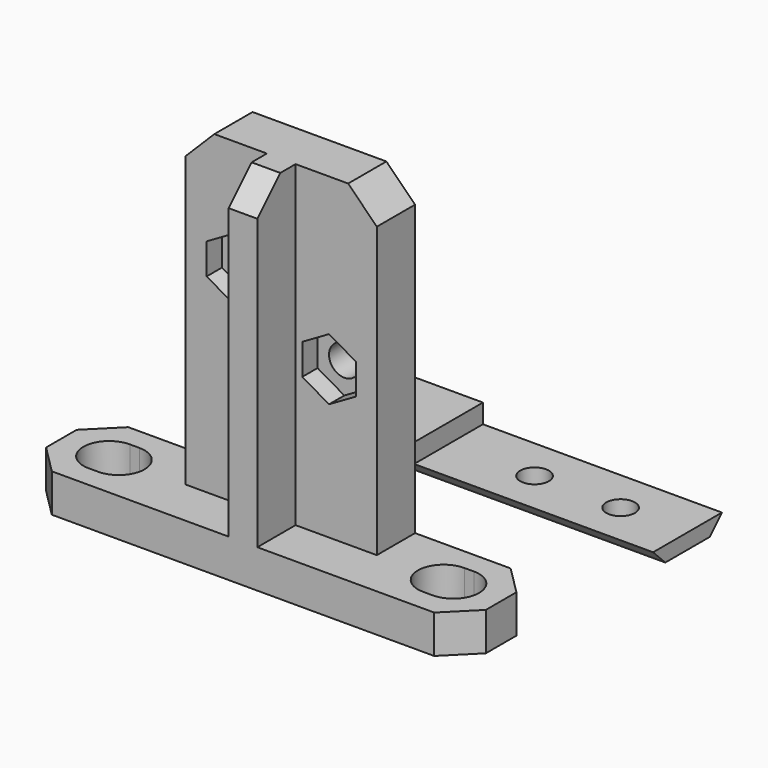
from build123d import *

# Parameters (mm, degrees)
F1_DEPTH        = 3
F3_DEPTH        = 34.25
F4_SIZE         = 3
F6_D            = 3.2
F8_DEPTH        = 3.001
F10_DEPTH       = 2
F13_DEPTH       = 22.5
F14_W           = 20
F14_H           = 9
F15_DEPTH       = 2
F17_D           = 5.2
F17_CBORE_D     = 10
F17_CBORE_DEPTH = 0
F19_D           = 3
F20_DEPTH       = 1


with BuildPart() as f1:
    # F0 (on Top) → F1 (new body)
    with BuildSketch(Plane.XY):
        Polygon((20, 5), (0, 5), (-20, 5), (-23, 2), (-23, 0), (-23, -2), (-20, -5), (0, -5), (20, -5), (23, -2), (23, 0), (23, 2), align=None)
    extrude(amount=F1_DEPTH)

    # F2 (on face) → F3 (join)
    with BuildSketch(Plane.XY.offset(3)):
        Polygon((10, 5), (-10, 5), (-10, 0), (-1.5, 0), (-1.5, -5), (1.5, -5), (1.5, 0), (10, 0), align=None)
    extrude(amount=F3_DEPTH)

    # F4
    f4_edges = [f1.edges().sort_by_distance(p)[0] for p in [
        (10, 2.5, 37.25),
        (-10, 2.5, 37.25),
        (0, -5, 37.25),
    ]]
    chamfer(f4_edges, length=F4_SIZE)

    # F6 (through all)
    with Locations(Plane(origin=(0, 5, 0), x_dir=(-1, 0, 0), z_dir=(0, 1, 0))):
        with Locations((5, 25.5), (-5, 19.5)):
            Hole(F6_D / 2)

    # F7 (on face) → F8 (cut, through all)
    with BuildSketch(Plane.XY.offset(3)):
        with BuildLine():
            ThreePointArc((17, 2.7), (14.3, 0), (17, -2.7))
            Line((17, -2.7), (18, -2.7))
            ThreePointArc((18, -2.7), (20.7, 0), (18, 2.7))
            Line((18, 2.7), (17, 2.7))
        make_face()
        with BuildLine():
            ThreePointArc((-17, -2.7), (-14.3, 0), (-17, 2.7))
            Line((-17, 2.7), (-18, 2.7))
            ThreePointArc((-18, 2.7), (-20.7, 0), (-18, -2.7))
            Line((-18, -2.7), (-17, -2.7))
        make_face()
    extrude(amount=-F8_DEPTH, mode=Mode.SUBTRACT)

    # F9 (on face) → F10 (cut)
    with BuildSketch(Plane.XZ):
        Polygon((7.8, 17.8834192463), (7.8, 21.1165807537), (5, 22.7331615075), (2.2, 21.1165807537), (2.2, 17.8834192463), (5, 16.2668384925), align=None)
        Polygon((-2.2, 23.8834192463), (-2.2, 27.1165807537), (-5, 28.7331615075), (-7.8, 27.1165807537), (-7.8, 23.8834192463), (-5, 22.2668384925), align=None)
    extrude(amount=-F10_DEPTH, mode=Mode.SUBTRACT)


with BuildPart() as f1_1:
    # F11: moved
    add(f1.part.moved(Location((0, -25, 0))))

    # F20 (add): faces of the model
    f20_faces = [f1_1.faces().sort_by_distance(p)[0] for p in [
        (12.5452222466, -25.7858856299, 3),
        (-12.5452222466, -25.7858856299, 3),
    ]]
    extrude(f20_faces, amount=F20_DEPTH)


with BuildPart() as f13:
    # F12 (on Right) → F13 (new body, symmetric)
    with BuildSketch(Plane.YZ):
        Polygon((4.5, 0), (0, 0), (-4.5, 0), (-2.9, -1.6), (2.9, -1.6), align=None)
    extrude(amount=F13_DEPTH, both=True)

    # F14 (on face) → F15 (join)
    with BuildSketch(Plane.XY):
        with Locations((-12.5, 0)):
            Rectangle(F14_W, F14_H)
    extrude(amount=F15_DEPTH)

    # F17 (through all)
    with Locations(Plane.XY.offset(2)):
        with Locations((-12.5, 0)):
            CounterBoreHole(F17_D / 2, F17_CBORE_D / 2, F17_CBORE_DEPTH)

    # F19 (through all)
    with Locations(Plane.XY):
        with Locations((6.5, 0), (15.5, 0)):
            Hole(F19_D / 2)


solid = Compound([f1_1.part, f13.part])
